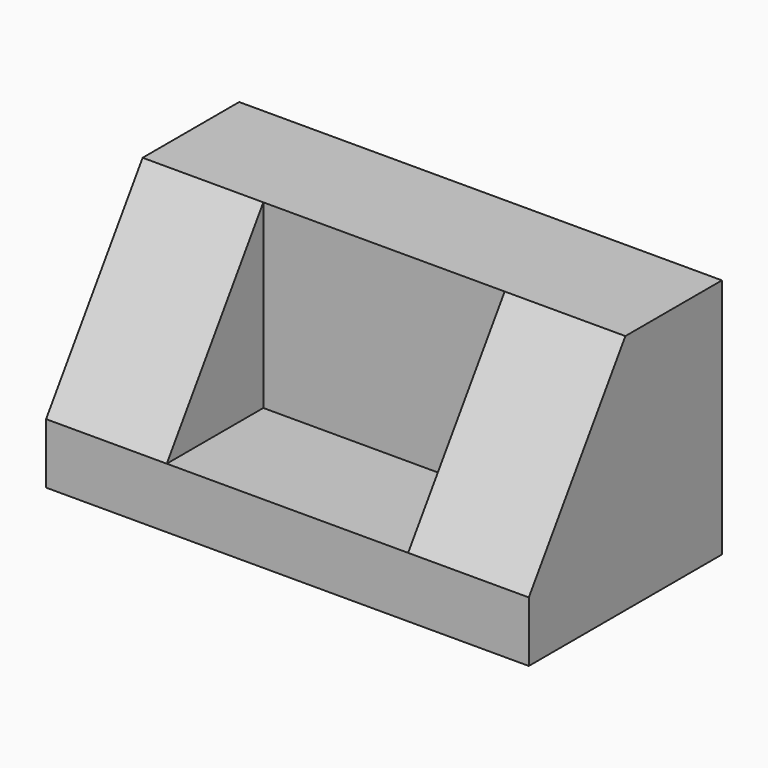
from build123d import *

# Parameters (mm, degrees)
F1_DEPTH = 50.8
F3_DEPTH = 101.6
F5_DEPTH = 50.8


with BuildPart() as f1:
    # F0 (on Right) → F1 (new body)
    with BuildSketch(Plane.YZ):
        Polygon((0, 25.4), (0, 0), (101.6, 0), (101.6, 101.6), (50.8, 101.6), align=None)
    extrude(amount=-F1_DEPTH)

    # F2 (on face) → F3 (join)
    with BuildSketch(Plane(origin=(-50.8, 0, 0), x_dir=(0, -1, 0), z_dir=(-1, 0, 0))):
        Polygon((0, 0), (0, 25.4), (-50.8, 25.4), (-50.8, 101.6), (-101.6, 101.6), (-101.6, 0), align=None)
    extrude(amount=F3_DEPTH)

    # F4 (on face) → F5 (join)
    with BuildSketch(Plane(origin=(-152.4, 0, 0), x_dir=(0, -1, 0), z_dir=(-1, 0, 0))):
        Polygon((0, 25.4), (-50.8, 101.6), (-50.8, 25.4), align=None)
        Polygon((-50.8, 101.6), (-101.6, 101.6), (-101.6, 0), (0, 0), (0, 25.4), (-50.8, 25.4), align=None)
    extrude(amount=F5_DEPTH)


solid = f1.part
